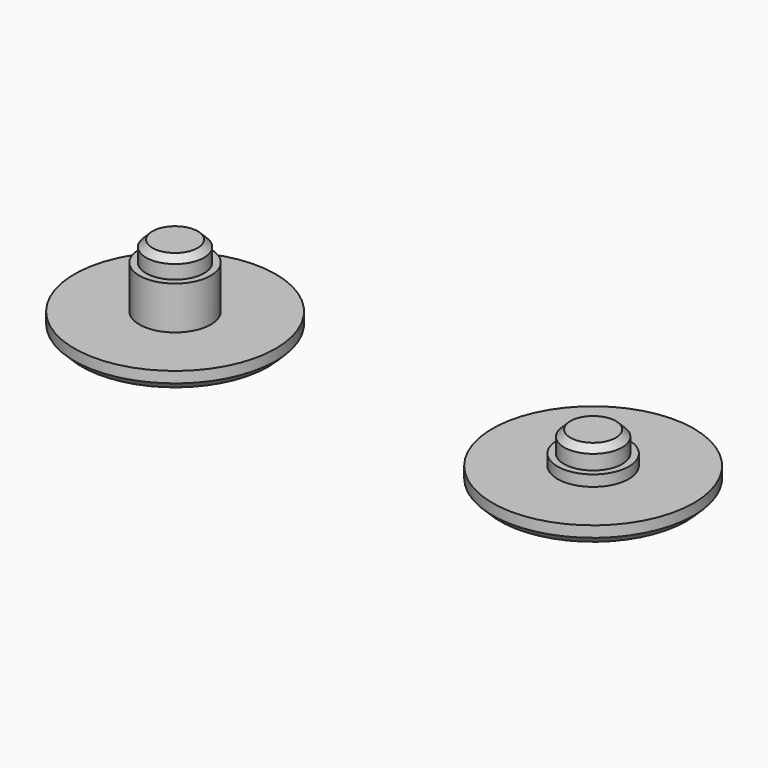
from build123d import *

# Parameters (mm, degrees)
F0_R     = 11
F0_R_2   = 3.9
F0_R_3   = 3.175
F1_DEPTH = 2
F2_DEPTH = 6.7
F3_DEPTH = 8.9
F4_DEPTH = 3.2
F5_DEPTH = 5.5
F6_SIZE  = 0.8
F7_SIZE  = 0.7


with BuildPart() as f1:
    # F0 (on Top) → F1 (new body)
    with BuildSketch(Plane.XY):
        with Locations((-45.653354, 0)):
            Circle(F0_R)
        with Locations((-45.653354, 0)):
            Circle(F0_R_2, mode=Mode.SUBTRACT)
        with Locations((-45.653354, 0)):
            Circle(F0_R_3)
        with Locations((-45.653354, 0)):
            Circle(F0_R_2)
        with Locations((-45.653354, 0)):
            Circle(F0_R_3, mode=Mode.SUBTRACT)
        Circle(F0_R)
        Circle(F0_R_2, mode=Mode.SUBTRACT)
        Circle(F0_R_2)
        Circle(F0_R_3, mode=Mode.SUBTRACT)
        Circle(F0_R_3)
    extrude(amount=F1_DEPTH)

    # F0 (on Top) → F2 (join)
    with BuildSketch(Plane.XY):
        with Locations((-45.653354, 0)):
            Circle(F0_R_3)
        with Locations((-45.653354, 0)):
            Circle(F0_R_2)
        with Locations((-45.653354, 0)):
            Circle(F0_R_3, mode=Mode.SUBTRACT)
    extrude(amount=F2_DEPTH)

    # F0 (on Top) → F3 (join)
    with BuildSketch(Plane.XY):
        with Locations((-45.653354, 0)):
            Circle(F0_R_3)
    extrude(amount=F3_DEPTH)

    # F0 (on Top) → F4 (join)
    with BuildSketch(Plane.XY):
        Circle(F0_R_3)
        Circle(F0_R_2)
        Circle(F0_R_3, mode=Mode.SUBTRACT)
    extrude(amount=F4_DEPTH)

    # F0 (on Top) → F5 (join)
    with BuildSketch(Plane.XY):
        Circle(F0_R_3)
    extrude(amount=F5_DEPTH)

    # F6
    f6_edges = [f1.edges().sort_by_distance(p)[0] for p in [
        (-56.653354, 0, 0),
        (-11, 0, 0),
    ]]
    chamfer(f6_edges, length=F6_SIZE)

    # F7
    f7_edges = [f1.edges().sort_by_distance(p)[0] for p in [
        (-48.828354, 0, 8.9),
        (-3.175, 0, 5.5),
    ]]
    chamfer(f7_edges, length=F7_SIZE)


solid = f1.part
